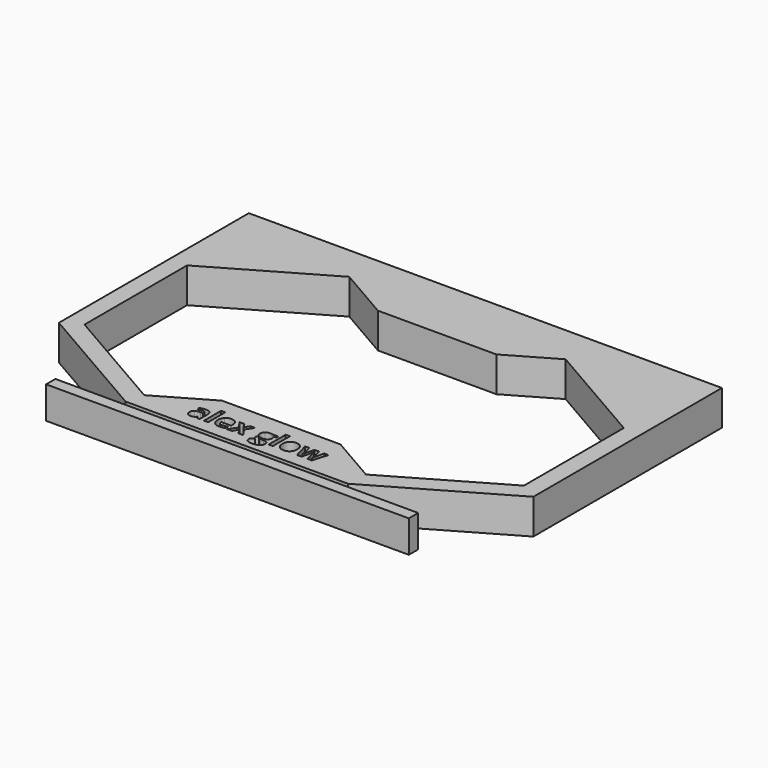
from build123d import *

# Parameters (mm, degrees)
F0_W     = 0.3584105002
F0_H     = 1.8289089846
F1_DEPTH = 3
F2_W     = 6
F2_H     = 2.75
F2_W_2   = 19.0538475773
F3_DEPTH = 1


with BuildPart() as f1:
    # F0 (on Top) → F1 (new body)
    with BuildSketch(Plane.XY):
        Polygon((20, 13.9696551146), (-20.5, 13.9696551146), (-20.5, -6.3508529611), (-9.9019237886, -12.4696551146), (9.1519237886, -12.4696551146), (20, -6.2065153938), align=None)
        with BuildLine():
            Line((-4.4437768229, -11.3568985835), (-4.6938743912, -11.3568985835))
            Line((-4.6938743912, -11.3568985835), (-4.7634504064, -11.1782574632))
            Line((-4.7634504064, -11.1782574632), (-4.7728525707, -11.1782574632))
            add(Edge.make_bspline(
                [(-4.7728525707, -11.1782574632), (-4.8631133472, -11.2922116936), (-4.9590154223, -11.3364018655)],
                knots=[0, 0, 0, 1, 1, 1], degree=2))
            add(Edge.make_bspline(
                [(-4.9590154223, -11.3364018655), (-5.0549174973, -11.3805920373), (-5.208736904, -11.3805920373)],
                knots=[0, 0, 0, 1, 1, 1], degree=2))
            add(Edge.make_bspline(
                [(-5.208736904, -11.3805920373), (-5.3979084482, -11.3805920373), (-5.5065974666, -11.2722791055)],
                knots=[0, 0, 0, 1, 1, 1], degree=2))
            add(Edge.make_bspline(
                [(-5.5065974666, -11.2722791055), (-5.615286485, -11.1639661736), (-5.615286485, -10.9642642055)],
                knots=[0, 0, 0, 1, 1, 1], degree=2))
            add(Edge.make_bspline(
                [(-5.615286485, -10.9642642055), (-5.615286485, -10.7551600732), (-5.4689888097, -10.655873219)],
                knots=[0, 0, 0, 1, 1, 1], degree=2))
            add(Edge.make_bspline(
                [(-5.4689888097, -10.655873219), (-5.3226911344, -10.5565863649), (-5.0278392644, -10.5460559409)],
                knots=[0, 0, 0, 1, 1, 1], degree=2))
            Line((-5.0278392644, -10.5460559409), (-4.7995547171, -10.5389102961))
            Line((-4.7995547171, -10.5389102961), (-4.7995547171, -10.4813690511))
            add(Edge.make_bspline(
                [(-4.7995547171, -10.4813690511), (-4.7995547171, -10.281667083), (-5.0041458105, -10.281667083)],
                knots=[0, 0, 0, 1, 1, 1], degree=2))
            add(Edge.make_bspline(
                [(-5.0041458105, -10.281667083), (-5.1617260829, -10.281667083), (-5.3745910809, -10.3768169849)],
                knots=[0, 0, 0, 1, 1, 1], degree=2))
            Line((-5.3745910809, -10.3768169849), (-5.4930583501, -10.1346172345))
            add(Edge.make_bspline(
                [(-5.4930583501, -10.1346172345), (-5.2662781491, -10.0157738788), (-4.9902306075, -10.0157738788)],
                knots=[0, 0, 0, 1, 1, 1], degree=2))
            add(Edge.make_bspline(
                [(-4.9902306075, -10.0157738788), (-4.7258417496, -10.0157738788), (-4.5848092862, -10.1310444121)],
                knots=[0, 0, 0, 1, 1, 1], degree=2))
            add(Edge.make_bspline(
                [(-4.5848092862, -10.1310444121), (-4.4437768229, -10.2463149455), (-4.4437768229, -10.4813690511)],
                knots=[0, 0, 0, 1, 1, 1], degree=2))
            Line((-4.4437768229, -10.4813690511), (-4.4437768229, -11.3568985835))
        make_face(mode=Mode.SUBTRACT)
        with Locations((-3.8952545621, -10.4424440912)):
            Rectangle(F0_W, F0_H, mode=Mode.SUBTRACT)
        with BuildLine():
            add(Edge.make_bspline(
                [(-2.4843657989, -11.3576507566), (-2.5911743845, -11.3805920373), (-2.7453698777, -11.3805920373)],
                knots=[0, 0, 0, 1, 1, 1], degree=2))
            add(Edge.make_bspline(
                [(-2.7453698777, -11.3805920373), (-3.0624108553, -11.3805920373), (-3.2410519755, -11.2053356962)],
                knots=[0, 0, 0, 1, 1, 1], degree=2))
            add(Edge.make_bspline(
                [(-3.2410519755, -11.2053356962), (-3.4196930958, -11.0300793551), (-3.4196930958, -10.7092775118)],
                knots=[0, 0, 0, 1, 1, 1], degree=2))
            add(Edge.make_bspline(
                [(-3.4196930958, -10.7092775118), (-3.4196930958, -10.3790735043), (-3.254591092, -10.1987399945)],
                knots=[0, 0, 0, 1, 1, 1], degree=2))
            add(Edge.make_bspline(
                [(-3.254591092, -10.1987399945), (-3.0894890883, -10.0184064848), (-2.7980219974, -10.0184064848)],
                knots=[0, 0, 0, 1, 1, 1], degree=2))
            add(Edge.make_bspline(
                [(-2.7980219974, -10.0184064848), (-2.5197179364, -10.0184064848), (-2.3645822267, -10.1769269735)],
                knots=[0, 0, 0, 1, 1, 1], degree=2))
            add(Edge.make_bspline(
                [(-2.3645822267, -10.1769269735), (-2.209446517, -10.3354474623), (-2.209446517, -10.6152558696)],
                knots=[0, 0, 0, 1, 1, 1], degree=2))
            Line((-2.209446517, -10.6152558696), (-2.209446517, -10.789383951))
            Line((-2.209446517, -10.789383951), (-3.0567695568, -10.789383951))
            add(Edge.make_bspline(
                [(-3.0567695568, -10.789383951), (-3.0507521717, -10.942075098), (-2.9661326937, -11.0278228357)],
                knots=[0, 0, 0, 1, 1, 1], degree=2))
            add(Edge.make_bspline(
                [(-2.9661326937, -11.0278228357), (-2.8815132157, -11.1135705734), (-2.7288220687, -11.1135705734)],
                knots=[0, 0, 0, 1, 1, 1], degree=2))
            add(Edge.make_bspline(
                [(-2.7288220687, -11.1135705734), (-2.6099787129, -11.1135705734), (-2.5042983871, -11.0889369031)],
                knots=[0, 0, 0, 1, 1, 1], degree=2))
            add(Edge.make_bspline(
                [(-2.5042983871, -11.0889369031), (-2.3986180612, -11.0643032329), (-2.2835355711, -11.0101467669)],
                knots=[0, 0, 0, 1, 1, 1], degree=2))
            Line((-2.2835355711, -11.0101467669), (-2.2835355711, -11.2876986548))
            add(Edge.make_bspline(
                [(-2.2835355711, -11.2876986548), (-2.3775572133, -11.3347094759), (-2.4843657989, -11.3576507566)],
                knots=[0, 0, 0, 1, 1, 1], degree=2))
        make_face(mode=Mode.SUBTRACT)
        Polygon((-2.094364027, -11.3568985835), (-1.6487014428, -10.6859601446), (-2.0717988328, -10.0428521117), (-1.6652492519, -10.0428521117), (-1.4102625581, -10.4614364629), (-1.153019345, -10.0428521117), (-0.7460936775, -10.0428521117), (-1.1740801929, -10.6859601446), (-0.7261610893, -11.3568985835), (-1.1342150166, -11.3568985835), (-1.4102625581, -10.9067229605), (-1.6874383594, -11.3568985835), align=None, mode=Mode.SUBTRACT)
        with BuildLine():
            Line((0.7842025714, -10.0428521117), (1.2426520989, -10.0428521117))
            Line((1.2426520989, -10.0428521117), (1.2426520989, -10.2252540977))
            Line((1.2426520989, -10.2252540977), (1.0369327457, -10.2779062173))
            add(Edge.make_bspline(
                [(1.0369327457, -10.2779062173), (1.093345731, -10.366286561), (1.093345731, -10.475351666)],
                knots=[0, 0, 0, 1, 1, 1], degree=2))
            add(Edge.make_bspline(
                [(1.093345731, -10.475351666), (1.093345731, -10.6870884043), (0.9457317527, -10.8051795869)],
                knots=[0, 0, 0, 1, 1, 1], degree=2))
            add(Edge.make_bspline(
                [(0.9457317527, -10.8051795869), (0.7981177744, -10.9232707695), (0.5363615225, -10.9232707695)],
                knots=[0, 0, 0, 1, 1, 1], degree=2))
            Line((0.5363615225, -10.9232707695), (0.4716746326, -10.9195099038))
            Line((0.4716746326, -10.9195099038), (0.4186464264, -10.9138686053))
            add(Edge.make_bspline(
                [(0.4186464264, -10.9138686053), (0.3633617008, -10.955990301), (0.3633617008, -11.0078902475)],
                knots=[0, 0, 0, 1, 1, 1], degree=2))
            add(Edge.make_bspline(
                [(0.3633617008, -11.0078902475), (0.3633617008, -11.0853640807), (0.5608071495, -11.0853640807)],
                knots=[0, 0, 0, 1, 1, 1], degree=2))
            Line((0.5608071495, -11.0853640807), (0.7842025714, -11.0853640807))
            add(Edge.make_bspline(
                [(0.7842025714, -11.0853640807), (1.0004523485, -11.0853640807), (1.113842449, -11.1782574632)],
                knots=[0, 0, 0, 1, 1, 1], degree=2))
            add(Edge.make_bspline(
                [(1.113842449, -11.1782574632), (1.2272325496, -11.2711508458), (1.2272325496, -11.4509202257)],
                knots=[0, 0, 0, 1, 1, 1], degree=2))
            add(Edge.make_bspline(
                [(1.2272325496, -11.4509202257), (1.2272325496, -11.6814612924), (1.0350523128, -11.8083905094)],
                knots=[0, 0, 0, 1, 1, 1], degree=2))
            add(Edge.make_bspline(
                [(1.0350523128, -11.8083905094), (0.8428720761, -11.9353197264), (0.4833333163, -11.9353197264)],
                knots=[0, 0, 0, 1, 1, 1], degree=2))
            add(Edge.make_bspline(
                [(0.4833333163, -11.9353197264), (0.2084140344, -11.9353197264), (0.0632446188, -11.8394176514)],
                knots=[0, 0, 0, 1, 1, 1], degree=2))
            add(Edge.make_bspline(
                [(0.0632446188, -11.8394176514), (-0.0819247968, -11.7435155763), (-0.0819247968, -11.5708918412)],
                knots=[0, 0, 0, 1, 1, 1], degree=2))
            add(Edge.make_bspline(
                [(-0.0819247968, -11.5708918412), (-0.0819247968, -11.4520484854), (-0.0078357427, -11.3721300895)],
                knots=[0, 0, 0, 1, 1, 1], degree=2))
            add(Edge.make_bspline(
                [(-0.0078357427, -11.3721300895), (0.0662533114, -11.2922116936), (0.2095422941, -11.2579878159)],
                knots=[0, 0, 0, 1, 1, 1], degree=2))
            add(Edge.make_bspline(
                [(0.2095422941, -11.2579878159), (0.1542575685, -11.2346704486), (0.1130760892, -11.1812661558)],
                knots=[0, 0, 0, 1, 1, 1], degree=2))
            add(Edge.make_bspline(
                [(0.1130760892, -11.1812661558), (0.0718946099, -11.127861863), (0.0718946099, -11.067688012)],
                knots=[0, 0, 0, 1, 1, 1], degree=2))
            add(Edge.make_bspline(
                [(0.0718946099, -11.067688012), (0.0718946099, -10.9924706982), (0.1153326086, -10.9426392278)],
                knots=[0, 0, 0, 1, 1, 1], degree=2))
            add(Edge.make_bspline(
                [(0.1153326086, -10.9426392278), (0.1587706073, -10.8928077574), (0.2411335659, -10.8442925901)],
                knots=[0, 0, 0, 1, 1, 1], degree=2))
            add(Edge.make_bspline(
                [(0.2411335659, -10.8442925901), (0.1377097595, -10.7999143749), (0.0771598219, -10.7011916506)],
                knots=[0, 0, 0, 1, 1, 1], degree=2))
            add(Edge.make_bspline(
                [(0.0771598219, -10.7011916506), (0.0166098843, -10.6024689263), (0.0166098843, -10.4682060212)],
                knots=[0, 0, 0, 1, 1, 1], degree=2))
            add(Edge.make_bspline(
                [(0.0166098843, -10.4682060212), (0.0166098843, -10.2534605903), (0.1565140879, -10.1359335375)],
                knots=[0, 0, 0, 1, 1, 1], degree=2))
            add(Edge.make_bspline(
                [(0.1565140879, -10.1359335375), (0.2964182915, -10.0184064848), (0.5562941106, -10.0184064848)],
                knots=[0, 0, 0, 1, 1, 1], degree=2))
            add(Edge.make_bspline(
                [(0.5562941106, -10.0184064848), (0.6115788363, -10.0184064848), (0.6873602799, -10.0283727788)],
                knots=[0, 0, 0, 1, 1, 1], degree=2))
            add(Edge.make_bspline(
                [(0.6873602799, -10.0283727788), (0.7631417235, -10.0383390729), (0.7842025714, -10.0428521117)],
                knots=[0, 0, 0, 1, 1, 1], degree=2))
        make_face(mode=Mode.SUBTRACT)
        with Locations((1.6381071261, -10.4424440912)):
            Rectangle(F0_W, F0_H, mode=Mode.SUBTRACT)
        with BuildLine():
            add(Edge.make_bspline(
                [(3.3099999681, -10.3367637653), (3.3874738013, -10.4907712153), (3.3874738013, -10.6976188282)],
                knots=[0, 0, 0, 1, 1, 1], degree=2))
            add(Edge.make_bspline(
                [(3.3874738013, -10.6976188282), (3.3874738013, -11.0184206715), (3.2182348453, -11.1995063544)],
                knots=[0, 0, 0, 1, 1, 1], degree=2))
            add(Edge.make_bspline(
                [(3.2182348453, -11.1995063544), (3.0489958893, -11.3805920373), (2.7469983745, -11.3805920373)],
                knots=[0, 0, 0, 1, 1, 1], degree=2))
            add(Edge.make_bspline(
                [(2.7469983745, -11.3805920373), (2.5578268303, -11.3805920373), (2.4132215446, -11.2976649489)],
                knots=[0, 0, 0, 1, 1, 1], degree=2))
            add(Edge.make_bspline(
                [(2.4132215446, -11.2976649489), (2.2686162588, -11.2147378604), (2.1911424256, -11.0596021508)],
                knots=[0, 0, 0, 1, 1, 1], degree=2))
            add(Edge.make_bspline(
                [(2.1911424256, -11.0596021508), (2.1136685925, -10.9044664411), (2.1136685925, -10.6976188282)],
                knots=[0, 0, 0, 1, 1, 1], degree=2))
            add(Edge.make_bspline(
                [(2.1136685925, -10.6976188282), (2.1136685925, -10.3756887252), (2.2815912455, -10.197047605)],
                knots=[0, 0, 0, 1, 1, 1], degree=2))
            add(Edge.make_bspline(
                [(2.2815912455, -10.197047605), (2.4495138985, -10.0184064848), (2.7541440193, -10.0184064848)],
                knots=[0, 0, 0, 1, 1, 1], degree=2))
            add(Edge.make_bspline(
                [(2.7541440193, -10.0184064848), (2.9433155634, -10.0184064848), (3.0879208492, -10.1005814001)],
                knots=[0, 0, 0, 1, 1, 1], degree=2))
            add(Edge.make_bspline(
                [(3.0879208492, -10.1005814001), (3.2325261349, -10.1827563154), (3.3099999681, -10.3367637653)],
                knots=[0, 0, 0, 1, 1, 1], degree=2))
        make_face(mode=Mode.SUBTRACT)
        with BuildLine():
            Line((5.1539524154, -11.3568985835), (4.7639506435, -11.3568985835))
            Line((4.7639506435, -11.3568985835), (4.6627833565, -10.8973207963))
            Line((4.6627833565, -10.8973207963), (4.5266400185, -10.3166431339))
            Line((4.5266400185, -10.3166431339), (4.518366114, -10.3166431339))
            Line((4.518366114, -10.3166431339), (4.278422883, -11.3568985835))
            Line((4.278422883, -11.3568985835), (3.8929341499, -11.3568985835))
            Line((3.8929341499, -11.3568985835), (3.519480187, -10.0428521117))
            Line((3.519480187, -10.0428521117), (3.8767624275, -10.0428521117))
            Line((3.8767624275, -10.0428521117), (4.0283253147, -10.6246580338))
            add(Edge.make_bspline(
                [(4.0283253147, -10.6246580338), (4.0648057119, -10.7811100465), (4.1024143688, -11.0560293284)],
                knots=[0, 0, 0, 1, 1, 1], degree=2))
            Line((4.1024143688, -11.0560293284), (4.109183927, -11.0560293284))
            add(Edge.make_bspline(
                [(4.109183927, -11.0560293284), (4.1140730524, -10.966520725), (4.1505534496, -10.772836142)],
                knots=[0, 0, 0, 1, 1, 1], degree=2))
            Line((4.1505534496, -10.772836142), (4.1693577781, -10.6727971146))
            Line((4.1693577781, -10.6727971146), (4.3314510893, -10.0428521117))
            Line((4.3314510893, -10.0428521117), (4.7263419866, -10.0428521117))
            Line((4.7263419866, -10.0428521117), (4.8801613933, -10.6727971146))
            add(Edge.make_bspline(
                [(4.8801613933, -10.6727971146), (4.8850505187, -10.6987470879), (4.8950168128, -10.7493307314)],
                knots=[0, 0, 0, 1, 1, 1], degree=2))
            add(Edge.make_bspline(
                [(4.8950168128, -10.7493307314), (4.9049831068, -10.7999143749), (4.914385271, -10.8568914901)],
                knots=[0, 0, 0, 1, 1, 1], degree=2))
            add(Edge.make_bspline(
                [(4.914385271, -10.8568914901), (4.9237874353, -10.9138686053), (4.9314972099, -10.9684011578)],
                knots=[0, 0, 0, 1, 1, 1], degree=2))
            add(Edge.make_bspline(
                [(4.9314972099, -10.9684011578), (4.9392069846, -11.0229337103), (4.9403352443, -11.0560293284)],
                knots=[0, 0, 0, 1, 1, 1], degree=2))
            Line((4.9403352443, -11.0560293284), (4.9471048025, -11.0560293284))
            add(Edge.make_bspline(
                [(4.9471048025, -11.0560293284), (4.958011313, -10.9714098503), (4.9849015027, -10.8239839153)],
                knots=[0, 0, 0, 1, 1, 1], degree=2))
            add(Edge.make_bspline(
                [(4.9849015027, -10.8239839153), (5.0117916924, -10.6765579803), (5.0238264626, -10.6246580338)],
                knots=[0, 0, 0, 1, 1, 1], degree=2))
            Line((5.0238264626, -10.6246580338), (5.1810306484, -10.0428521117))
            Line((5.1810306484, -10.0428521117), (5.5326715903, -10.0428521117))
            Line((5.5326715903, -10.0428521117), (5.1539524154, -11.3568985835))
        make_face(mode=Mode.SUBTRACT)
        Polygon((-9.5, 10.9696551146), (-4.9461524227, 8.34048999), (5.1961524227, 8.34048999), (9.25, 10.68097998), (18.5, 5.34048999), (18.5, -5.34048999), (9.25, -10.68097998), (5.1961524227, -8.34048999), (-4.9461524227, -8.34048999), (-9.5, -10.9696551146), (-19, -5.4848275573), (-19, 5.4848275573), align=None, mode=Mode.SUBTRACT)
    extrude(amount=F1_DEPTH)

    # F2 (on face) → F3 (join)
    with BuildSketch(Plane.XZ.offset(12.4696551146)):
        with Locations((-12.9019237886, 1.375)):
            Rectangle(F2_W, F2_H)
        with Locations((-0.375, 1.375)):
            Rectangle(F2_W_2, F2_H)
        with Locations((12.1519237886, 1.375)):
            Rectangle(F2_W, F2_H)
    extrude(amount=F3_DEPTH)


solid = f1.part
